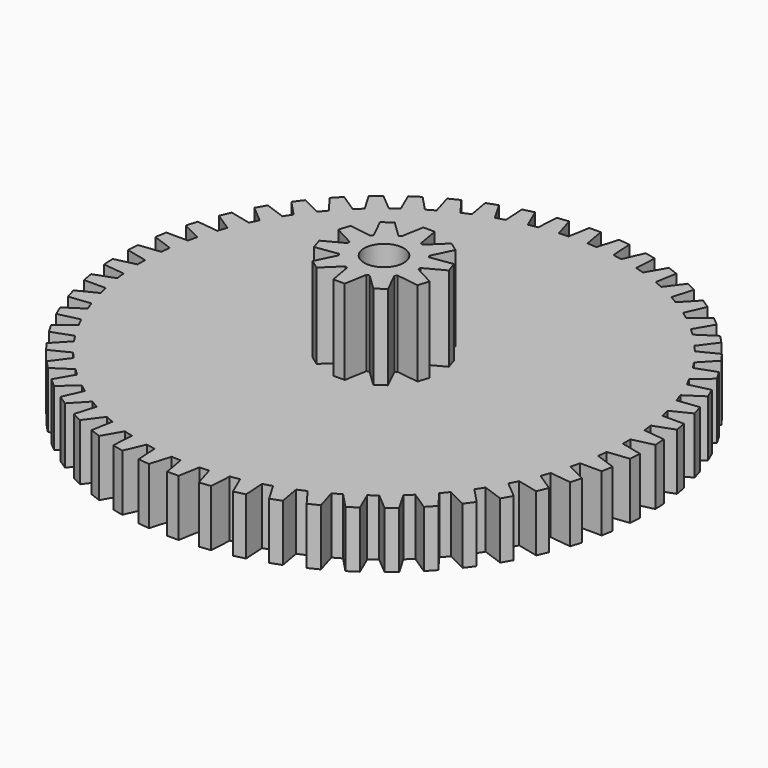
from build123d import *

# Parameters (mm, degrees)
F1_DEPTH = 3
F3_DEPTH = 4.5
F4_R     = 1.05
F5_DEPTH = 7.501


with BuildPart() as f1:
    # F0 (on Top) → F1 (new body)
    with BuildSketch(Plane.XY):
        with BuildLine():
            ThreePointArc((12.872627, -0.24717), (12.874407, -0.123591), (12.875, 0))
            ThreePointArc((12.875, 0), (12.874407, 0.123591), (12.872627, 0.24717))
            ThreePointArc((12.872627, 0.24717), (12.853218, 0.748615), (12.814282, 1.248922))
            ThreePointArc((12.814282, 1.248922), (12.787944, 1.494696), (12.756892, 1.73992))
            ThreePointArc((12.756892, 1.73992), (12.6794, 2.23572), (12.582645, 2.728124))
            ThreePointArc((12.582645, 2.728124), (12.527953, 2.969179), (12.468642, 3.20914))
            ThreePointArc((12.468642, 3.20914), (12.334115, 3.692592), (12.18085, 4.170434))
            ThreePointArc((12.18085, 4.170434), (12.098542, 4.403509), (12.011776, 4.634962))
            ThreePointArc((12.011776, 4.634962), (11.822032, 5.099527), (11.61433, 5.556345))
            ThreePointArc((11.61433, 5.556345), (11.50552, 5.778289), (11.39247, 5.998104))
            ThreePointArc((11.39247, 5.998104), (11.150077, 6.4375), (10.890746, 6.867116))
            ThreePointArc((10.890746, 6.867116), (10.756906, 7.074928), (10.619101, 7.280132))
            ThreePointArc((10.619101, 7.280132), (10.327336, 7.688417), (10.019883, 8.085022))
            ThreePointArc((10.019883, 8.085022), (9.862822, 8.27589), (9.702126, 8.463709))
            ThreePointArc((9.702126, 8.463709), (9.364936, 8.835361), (9.013518, 9.193591))
            ThreePointArc((9.013518, 9.193591), (8.835361, 9.364936), (8.653947, 9.532828))
            ThreePointArc((8.653947, 9.532828), (8.27589, 9.862822), (7.885261, 10.177833))
            ThreePointArc((7.885261, 10.177833), (7.688417, 10.327336), (7.488739, 10.473033))
            ThreePointArc((7.488739, 10.473033), (7.074928, 10.756906), (6.65037, 11.024437))
            ThreePointArc((6.65037, 11.024437), (6.4375, 11.150077), (6.222258, 11.271607))
            ThreePointArc((6.222258, 11.271607), (5.778289, 11.50552), (5.325543, 11.721954))
            ThreePointArc((5.325543, 11.721954), (5.099527, 11.822032), (4.871631, 11.917753))
            ThreePointArc((4.871631, 11.917753), (4.403509, 12.098542), (3.928698, 12.260953))
            ThreePointArc((3.928698, 12.260953), (3.692592, 12.334115), (3.455124, 12.402731))
            ThreePointArc((3.455124, 12.402731), (2.969179, 12.527953), (2.478724, 12.634142))
            ThreePointArc((2.478724, 12.634142), (2.23572, 12.6794), (1.991893, 12.719984))
            ThreePointArc((1.991893, 12.719984), (1.494696, 12.787944), (0.995229, 12.836477))
            ThreePointArc((0.995229, 12.836477), (0.748615, 12.853218), (0.501724, 12.86522))
            ThreePointArc((0.501724, 12.86522), (0, 12.875), (-0.501724, 12.86522))
            ThreePointArc((-0.501724, 12.86522), (-0.748615, 12.853218), (-0.995229, 12.836477))
            ThreePointArc((-0.995229, 12.836477), (-1.494696, 12.787944), (-1.991893, 12.719984))
            ThreePointArc((-1.991893, 12.719984), (-2.23572, 12.6794), (-2.478724, 12.634142))
            ThreePointArc((-2.478724, 12.634142), (-2.969179, 12.527953), (-3.455124, 12.402731))
            ThreePointArc((-3.455124, 12.402731), (-3.692592, 12.334115), (-3.928698, 12.260953))
            ThreePointArc((-3.928698, 12.260953), (-4.403509, 12.098542), (-4.871631, 11.917753))
            ThreePointArc((-4.871631, 11.917753), (-5.099527, 11.822032), (-5.325543, 11.721954))
            ThreePointArc((-5.325543, 11.721954), (-5.778289, 11.50552), (-6.222258, 11.271607))
            ThreePointArc((-6.222258, 11.271607), (-6.4375, 11.150077), (-6.65037, 11.024437))
            ThreePointArc((-6.65037, 11.024437), (-7.074928, 10.756906), (-7.488739, 10.473033))
            ThreePointArc((-7.488739, 10.473033), (-7.688417, 10.327336), (-7.885261, 10.177833))
            ThreePointArc((-7.885261, 10.177833), (-8.27589, 9.862822), (-8.653947, 9.532828))
            ThreePointArc((-8.653947, 9.532828), (-8.835361, 9.364936), (-9.013518, 9.193591))
            ThreePointArc((-9.013518, 9.193591), (-9.364936, 8.835361), (-9.702126, 8.463709))
            ThreePointArc((-9.702126, 8.463709), (-9.862822, 8.27589), (-10.019883, 8.085022))
            ThreePointArc((-10.019883, 8.085022), (-10.327336, 7.688417), (-10.619101, 7.280132))
            ThreePointArc((-10.619101, 7.280132), (-10.756906, 7.074928), (-10.890746, 6.867116))
            ThreePointArc((-10.890746, 6.867116), (-11.150077, 6.4375), (-11.39247, 5.998104))
            ThreePointArc((-11.39247, 5.998104), (-11.50552, 5.778289), (-11.61433, 5.556345))
            ThreePointArc((-11.61433, 5.556345), (-11.822032, 5.099527), (-12.011776, 4.634962))
            ThreePointArc((-12.011776, 4.634962), (-12.098542, 4.403509), (-12.18085, 4.170434))
            ThreePointArc((-12.18085, 4.170434), (-12.334115, 3.692592), (-12.468642, 3.20914))
            ThreePointArc((-12.468642, 3.20914), (-12.527953, 2.969179), (-12.582645, 2.728124))
            ThreePointArc((-12.582645, 2.728124), (-12.6794, 2.23572), (-12.756892, 1.73992))
            ThreePointArc((-12.756892, 1.73992), (-12.787944, 1.494696), (-12.814282, 1.248922))
            ThreePointArc((-12.814282, 1.248922), (-12.853218, 0.748615), (-12.872627, 0.24717))
            ThreePointArc((-12.872627, 0.24717), (-12.875, 0), (-12.872627, -0.24717))
            ThreePointArc((-12.872627, -0.24717), (-12.853218, -0.748615), (-12.814282, -1.248922))
            ThreePointArc((-12.814282, -1.248922), (-12.787944, -1.494696), (-12.756892, -1.73992))
            ThreePointArc((-12.756892, -1.73992), (-12.6794, -2.23572), (-12.582645, -2.728124))
            ThreePointArc((-12.582645, -2.728124), (-12.527953, -2.969179), (-12.468642, -3.20914))
            ThreePointArc((-12.468642, -3.20914), (-12.334115, -3.692592), (-12.18085, -4.170434))
            ThreePointArc((-12.18085, -4.170434), (-12.098542, -4.403509), (-12.011776, -4.634962))
            ThreePointArc((-12.011776, -4.634962), (-11.822032, -5.099527), (-11.61433, -5.556345))
            ThreePointArc((-11.61433, -5.556345), (-11.50552, -5.778289), (-11.39247, -5.998104))
            ThreePointArc((-11.39247, -5.998104), (-11.150077, -6.4375), (-10.890746, -6.867116))
            ThreePointArc((-10.890746, -6.867116), (-10.756906, -7.074928), (-10.619101, -7.280132))
            ThreePointArc((-10.619101, -7.280132), (-10.327336, -7.688417), (-10.019883, -8.085022))
            ThreePointArc((-10.019883, -8.085022), (-9.862822, -8.27589), (-9.702126, -8.463709))
            ThreePointArc((-9.702126, -8.463709), (-9.364936, -8.835361), (-9.013518, -9.193591))
            ThreePointArc((-9.013518, -9.193591), (-8.835361, -9.364936), (-8.653947, -9.532828))
            ThreePointArc((-8.653947, -9.532828), (-8.27589, -9.862822), (-7.885261, -10.177833))
            ThreePointArc((-7.885261, -10.177833), (-7.688417, -10.327336), (-7.488739, -10.473033))
            ThreePointArc((-7.488739, -10.473033), (-7.074928, -10.756906), (-6.65037, -11.024437))
            ThreePointArc((-6.65037, -11.024437), (-6.4375, -11.150077), (-6.222258, -11.271607))
            ThreePointArc((-6.222258, -11.271607), (-5.778289, -11.50552), (-5.325543, -11.721954))
            ThreePointArc((-5.325543, -11.721954), (-5.099527, -11.822032), (-4.871631, -11.917753))
            ThreePointArc((-4.871631, -11.917753), (-4.403509, -12.098542), (-3.928698, -12.260953))
            ThreePointArc((-3.928698, -12.260953), (-3.692592, -12.334115), (-3.455124, -12.402731))
            ThreePointArc((-3.455124, -12.402731), (-2.969179, -12.527953), (-2.478724, -12.634142))
            ThreePointArc((-2.478724, -12.634142), (-2.23572, -12.6794), (-1.991893, -12.719984))
            ThreePointArc((-1.991893, -12.719984), (-1.494696, -12.787944), (-0.995229, -12.836477))
            ThreePointArc((-0.995229, -12.836477), (-0.748615, -12.853218), (-0.501724, -12.86522))
            ThreePointArc((-0.501724, -12.86522), (0, -12.875), (0.501724, -12.86522))
            ThreePointArc((0.501724, -12.86522), (0.748615, -12.853218), (0.995229, -12.836477))
            ThreePointArc((0.995229, -12.836477), (1.494696, -12.787944), (1.991893, -12.719984))
            ThreePointArc((1.991893, -12.719984), (2.23572, -12.6794), (2.478724, -12.634142))
            ThreePointArc((2.478724, -12.634142), (2.969179, -12.527953), (3.455124, -12.402731))
            ThreePointArc((3.455124, -12.402731), (3.692592, -12.334115), (3.928698, -12.260953))
            ThreePointArc((3.928698, -12.260953), (4.403509, -12.098542), (4.871631, -11.917753))
            ThreePointArc((4.871631, -11.917753), (5.099527, -11.822032), (5.325543, -11.721954))
            ThreePointArc((5.325543, -11.721954), (5.778289, -11.50552), (6.222258, -11.271607))
            ThreePointArc((6.222258, -11.271607), (6.4375, -11.150077), (6.65037, -11.024437))
            ThreePointArc((6.65037, -11.024437), (7.074928, -10.756906), (7.488739, -10.473033))
            ThreePointArc((7.488739, -10.473033), (7.688417, -10.327336), (7.885261, -10.177833))
            ThreePointArc((7.885261, -10.177833), (8.27589, -9.862822), (8.653947, -9.532828))
            ThreePointArc((8.653947, -9.532828), (8.835361, -9.364936), (9.013518, -9.193591))
            ThreePointArc((9.013518, -9.193591), (9.364936, -8.835361), (9.702126, -8.463709))
            ThreePointArc((9.702126, -8.463709), (9.862822, -8.27589), (10.019883, -8.085022))
            ThreePointArc((10.019883, -8.085022), (10.327336, -7.688417), (10.619101, -7.280132))
            ThreePointArc((10.619101, -7.280132), (10.756906, -7.074928), (10.890746, -6.867116))
            ThreePointArc((10.890746, -6.867116), (11.150077, -6.4375), (11.39247, -5.998104))
            ThreePointArc((11.39247, -5.998104), (11.50552, -5.778289), (11.61433, -5.556345))
            ThreePointArc((11.61433, -5.556345), (11.822032, -5.099527), (12.011776, -4.634962))
            ThreePointArc((12.011776, -4.634962), (12.098542, -4.403509), (12.18085, -4.170434))
            ThreePointArc((12.18085, -4.170434), (12.334115, -3.692592), (12.468642, -3.20914))
            ThreePointArc((12.468642, -3.20914), (12.527953, -2.969179), (12.582645, -2.728124))
            ThreePointArc((12.582645, -2.728124), (12.6794, -2.23572), (12.756892, -1.73992))
            ThreePointArc((12.756892, -1.73992), (12.787944, -1.494696), (12.814282, -1.248922))
            ThreePointArc((12.814282, -1.248922), (12.853218, -0.748615), (12.872627, -0.24717))
        make_face()
        with BuildLine():
            ThreePointArc((12.814282, 1.248922), (12.853218, 0.748615), (12.872627, 0.24717))
            Line((12.872627, 0.24717), (13.990629, 0.512142))
            Line((13.990629, 0.512142), (13.955486, 1.115534))
            Line((13.955486, 1.115534), (12.814282, 1.248922))
        make_face()
        with BuildLine():
            Line((13.990629, -0.512142), (12.872627, -0.24717))
            ThreePointArc((12.872627, -0.24717), (12.853218, -0.748615), (12.814282, -1.248922))
            Line((12.814282, -1.248922), (13.955486, -1.115534))
            Line((13.955486, -1.115534), (13.990629, -0.512142))
        make_face()
        with BuildLine():
            ThreePointArc((12.582645, 2.728124), (12.6794, 2.23572), (12.756892, 1.73992))
            Line((12.756892, 1.73992), (13.836574, 2.132892))
            Line((13.836574, 2.132892), (13.731618, 2.728124))
            Line((13.731618, 2.728124), (12.582645, 2.728124))
        make_face()
        with BuildLine():
            Line((13.836574, -2.132892), (12.756892, -1.73992))
            ThreePointArc((12.756892, -1.73992), (12.6794, -2.23572), (12.582645, -2.728124))
            Line((12.582645, -2.728124), (13.731618, -2.728124))
            Line((13.731618, -2.728124), (13.836574, -2.132892))
        make_face()
        with BuildLine():
            ThreePointArc((12.18085, 4.170434), (12.334115, 3.692592), (12.468642, 3.20914))
            Line((12.468642, 3.20914), (13.495402, 3.724798))
            Line((13.495402, 3.724798), (13.322054, 4.303821))
            Line((13.322054, 4.303821), (12.18085, 4.170434))
        make_face()
        with BuildLine():
            Line((13.495402, -3.724798), (12.468642, -3.20914))
            ThreePointArc((12.468642, -3.20914), (12.334115, -3.692592), (12.18085, -4.170434))
            Line((12.18085, -4.170434), (13.322054, -4.303821))
            Line((13.322054, -4.303821), (13.495402, -3.724798))
        make_face()
        with BuildLine():
            ThreePointArc((11.61433, 5.556345), (11.822032, 5.099527), (12.011776, 4.634962))
            Line((12.011776, 4.634962), (12.971728, 5.266333))
            Line((12.971728, 5.266333), (12.732332, 5.821316))
            Line((12.732332, 5.821316), (11.61433, 5.556345))
        make_face()
        with BuildLine():
            Line((12.971728, -5.266333), (12.011776, -4.634962))
            ThreePointArc((12.011776, -4.634962), (11.822032, -5.099527), (11.61433, -5.556345))
            Line((11.61433, -5.556345), (12.732332, -5.821316))
            Line((12.732332, -5.821316), (12.971728, -5.266333))
        make_face()
        with BuildLine():
            ThreePointArc((10.890746, 6.867116), (11.150077, 6.4375), (11.39247, 5.998104))
            Line((11.39247, 5.998104), (12.272634, 6.73665))
            Line((12.272634, 6.73665), (11.970427, 7.260088))
            Line((11.970427, 7.260088), (10.890746, 6.867116))
        make_face()
        with BuildLine():
            Line((12.272634, -6.73665), (11.39247, -5.998104))
            ThreePointArc((11.39247, -5.998104), (11.150077, -6.4375), (10.890746, -6.867116))
            Line((10.890746, -6.867116), (11.970427, -7.260088))
            Line((11.970427, -7.260088), (12.272634, -6.73665))
        make_face()
        with BuildLine():
            ThreePointArc((10.019883, 8.085022), (10.327336, 7.688417), (10.619101, 7.280132))
            Line((10.619101, 7.280132), (11.407574, 8.115865))
            Line((11.407574, 8.115865), (11.046642, 8.60068))
            Line((11.046642, 8.60068), (10.019883, 8.085022))
        make_face()
        with BuildLine():
            Line((11.407574, -8.115865), (10.619101, -7.280132))
            ThreePointArc((10.619101, -7.280132), (10.327336, -7.688417), (10.019883, -8.085022))
            Line((10.019883, -8.085022), (11.046642, -8.60068))
            Line((11.046642, -8.60068), (11.407574, -8.115865))
        make_face()
        with BuildLine():
            ThreePointArc((9.013518, 9.193591), (9.364936, 8.835361), (9.702126, 8.463709))
            Line((9.702126, 8.463709), (10.388245, 9.385327))
            Line((10.388245, 9.385327), (9.973471, 9.824962))
            Line((9.973471, 9.824962), (9.013518, 9.193591))
        make_face()
        with BuildLine():
            Line((10.388245, -9.385327), (9.702126, -8.463709))
            ThreePointArc((9.702126, -8.463709), (9.364936, -8.835361), (9.013518, -9.193591))
            Line((9.013518, -9.193591), (9.973471, -9.824962))
            Line((9.973471, -9.824962), (10.388245, -9.385327))
        make_face()
        with BuildLine():
            ThreePointArc((7.885261, 10.177833), (8.27589, 9.862822), (8.653947, 9.532828))
            Line((8.653947, 9.532828), (9.228434, 10.527868))
            Line((9.228434, 10.527868), (8.765425, 10.916378))
            Line((8.765425, 10.916378), (7.885261, 10.177833))
        make_face()
        with BuildLine():
            Line((9.228434, -10.527868), (8.653947, -9.532828))
            ThreePointArc((8.653947, -9.532828), (8.27589, -9.862822), (7.885261, -10.177833))
            Line((7.885261, -10.177833), (8.765425, -10.916378))
            Line((8.765425, -10.916378), (9.228434, -10.527868))
        make_face()
        with BuildLine():
            ThreePointArc((6.65037, 11.024437), (7.074928, 10.756906), (7.488739, 10.473033))
            Line((7.488739, 10.473033), (7.943824, 11.528038))
            Line((7.943824, 11.528038), (7.438843, 11.86017))
            Line((7.438843, 11.86017), (6.65037, 11.024437))
        make_face()
        with BuildLine():
            Line((7.943824, -11.528038), (7.488739, -10.473033))
            ThreePointArc((7.488739, -10.473033), (7.074928, -10.756906), (6.65037, -11.024437))
            Line((6.65037, -11.024437), (7.438843, -11.86017))
            Line((7.438843, -11.86017), (7.943824, -11.528038))
        make_face()
        with BuildLine():
            ThreePointArc((5.325543, 11.721954), (5.778289, 11.50552), (6.222258, 11.271607))
            Line((6.222258, 11.271607), (6.551787, 12.372311))
            Line((6.551787, 12.372311), (6.011662, 12.643572))
            Line((6.011662, 12.643572), (5.325543, 11.721954))
        make_face()
        with BuildLine():
            Line((6.551787, -12.372311), (6.222258, -11.271607))
            ThreePointArc((6.222258, -11.271607), (5.778289, -11.50552), (5.325543, -11.721954))
            Line((5.325543, -11.721954), (6.011662, -12.643572))
            Line((6.011662, -12.643572), (6.551787, -12.372311))
        make_face()
        with BuildLine():
            ThreePointArc((3.928698, 12.260953), (4.403509, 12.098542), (4.871631, 11.917753))
            Line((4.871631, 11.917753), (5.071148, 13.04927))
            Line((5.071148, 13.04927), (4.503184, 13.255992))
            Line((4.503184, 13.255992), (3.928698, 12.260953))
        make_face()
        with BuildLine():
            Line((5.071148, -13.04927), (4.871631, -11.917753))
            ThreePointArc((4.871631, -11.917753), (4.403509, -12.098542), (3.928698, -12.260953))
            Line((3.928698, -12.260953), (4.503184, -13.255992))
            Line((4.503184, -13.255992), (5.071148, -13.04927))
        make_face()
        with BuildLine():
            ThreePointArc((2.478724, 12.634142), (2.969179, 12.527953), (3.455124, 12.402731))
            Line((3.455124, 12.402731), (3.521931, 13.54976))
            Line((3.521931, 13.54976), (2.933809, 13.689148))
            Line((2.933809, 13.689148), (2.478724, 12.634142))
        make_face()
        with BuildLine():
            Line((3.521931, -13.54976), (3.455124, -12.402731))
            ThreePointArc((3.455124, -12.402731), (2.969179, -12.527953), (2.478724, -12.634142))
            Line((2.478724, -12.634142), (2.933809, -13.689148))
            Line((2.933809, -13.689148), (3.521931, -13.54976))
        make_face()
        with BuildLine():
            ThreePointArc((0.995229, 12.836477), (1.494696, 12.787944), (1.991893, 12.719984))
            Line((1.991893, 12.719984), (1.925086, 13.867013))
            Line((1.925086, 13.867013), (1.324758, 13.937181))
            Line((1.324758, 13.937181), (0.995229, 12.836477))
        make_face()
        with BuildLine():
            Line((1.925086, -13.867013), (1.991893, -12.719984))
            ThreePointArc((1.991893, -12.719984), (1.494696, -12.787944), (0.995229, -12.836477))
            Line((0.995229, -12.836477), (1.324758, -13.937181))
            Line((1.324758, -13.937181), (1.925086, -13.867013))
        make_face()
        with BuildLine():
            ThreePointArc((-0.501724, 12.86522), (0, 12.875), (0.501724, 12.86522))
            Line((0.501724, 12.86522), (0.302207, 13.996738))
            Line((0.302207, 13.996738), (-0.302207, 13.996738))
            Line((-0.302207, 13.996738), (-0.501724, 12.86522))
        make_face()
        with BuildLine():
            Line((0.302207, -13.996738), (0.501724, -12.86522))
            ThreePointArc((0.501724, -12.86522), (0, -12.875), (-0.501724, -12.86522))
            Line((-0.501724, -12.86522), (-0.302207, -13.996738))
            Line((-0.302207, -13.996738), (0.302207, -13.996738))
        make_face()
        with BuildLine():
            ThreePointArc((-1.991893, 12.719984), (-1.494696, 12.787944), (-0.995229, 12.836477))
            Line((-0.995229, 12.836477), (-1.324758, 13.937181))
            Line((-1.324758, 13.937181), (-1.925086, 13.867013))
            Line((-1.925086, 13.867013), (-1.991893, 12.719984))
        make_face()
        with BuildLine():
            Line((-1.324758, -13.937181), (-0.995229, -12.836477))
            ThreePointArc((-0.995229, -12.836477), (-1.494696, -12.787944), (-1.991893, -12.719984))
            Line((-1.991893, -12.719984), (-1.925086, -13.867013))
            Line((-1.925086, -13.867013), (-1.324758, -13.937181))
        make_face()
        with BuildLine():
            ThreePointArc((-3.455124, 12.402731), (-2.969179, 12.527953), (-2.478724, 12.634142))
            Line((-2.478724, 12.634142), (-2.933809, 13.689148))
            Line((-2.933809, 13.689148), (-3.521931, 13.54976))
            Line((-3.521931, 13.54976), (-3.455124, 12.402731))
        make_face()
        with BuildLine():
            Line((-2.933809, -13.689148), (-2.478724, -12.634142))
            ThreePointArc((-2.478724, -12.634142), (-2.969179, -12.527953), (-3.455124, -12.402731))
            Line((-3.455124, -12.402731), (-3.521931, -13.54976))
            Line((-3.521931, -13.54976), (-2.933809, -13.689148))
        make_face()
        with BuildLine():
            ThreePointArc((-4.871631, 11.917753), (-4.403509, 12.098542), (-3.928698, 12.260953))
            Line((-3.928698, 12.260953), (-4.503184, 13.255992))
            Line((-4.503184, 13.255992), (-5.071148, 13.04927))
            Line((-5.071148, 13.04927), (-4.871631, 11.917753))
        make_face()
        with BuildLine():
            Line((-4.503184, -13.255992), (-3.928698, -12.260953))
            ThreePointArc((-3.928698, -12.260953), (-4.403509, -12.098542), (-4.871631, -11.917753))
            Line((-4.871631, -11.917753), (-5.071148, -13.04927))
            Line((-5.071148, -13.04927), (-4.503184, -13.255992))
        make_face()
        with BuildLine():
            ThreePointArc((-6.222258, 11.271607), (-5.778289, 11.50552), (-5.325543, 11.721954))
            Line((-5.325543, 11.721954), (-6.011662, 12.643572))
            Line((-6.011662, 12.643572), (-6.551787, 12.372311))
            Line((-6.551787, 12.372311), (-6.222258, 11.271607))
        make_face()
        with BuildLine():
            Line((-6.011662, -12.643572), (-5.325543, -11.721954))
            ThreePointArc((-5.325543, -11.721954), (-5.778289, -11.50552), (-6.222258, -11.271607))
            Line((-6.222258, -11.271607), (-6.551787, -12.372311))
            Line((-6.551787, -12.372311), (-6.011662, -12.643572))
        make_face()
        with BuildLine():
            ThreePointArc((-7.488739, 10.473033), (-7.074928, 10.756906), (-6.65037, 11.024437))
            Line((-6.65037, 11.024437), (-7.438843, 11.86017))
            Line((-7.438843, 11.86017), (-7.943824, 11.528038))
            Line((-7.943824, 11.528038), (-7.488739, 10.473033))
        make_face()
        with BuildLine():
            Line((-7.438843, -11.86017), (-6.65037, -11.024437))
            ThreePointArc((-6.65037, -11.024437), (-7.074928, -10.756906), (-7.488739, -10.473033))
            Line((-7.488739, -10.473033), (-7.943824, -11.528038))
            Line((-7.943824, -11.528038), (-7.438843, -11.86017))
        make_face()
        with BuildLine():
            ThreePointArc((-8.653947, 9.532828), (-8.27589, 9.862822), (-7.885261, 10.177833))
            Line((-7.885261, 10.177833), (-8.765425, 10.916378))
            Line((-8.765425, 10.916378), (-9.228434, 10.527868))
            Line((-9.228434, 10.527868), (-8.653947, 9.532828))
        make_face()
        with BuildLine():
            Line((-8.765425, -10.916378), (-7.885261, -10.177833))
            ThreePointArc((-7.885261, -10.177833), (-8.27589, -9.862822), (-8.653947, -9.532828))
            Line((-8.653947, -9.532828), (-9.228434, -10.527868))
            Line((-9.228434, -10.527868), (-8.765425, -10.916378))
        make_face()
        with BuildLine():
            ThreePointArc((-9.702126, 8.463709), (-9.364936, 8.835361), (-9.013518, 9.193591))
            Line((-9.013518, 9.193591), (-9.973471, 9.824962))
            Line((-9.973471, 9.824962), (-10.388245, 9.385327))
            Line((-10.388245, 9.385327), (-9.702126, 8.463709))
        make_face()
        with BuildLine():
            Line((-9.973471, -9.824962), (-9.013518, -9.193591))
            ThreePointArc((-9.013518, -9.193591), (-9.364936, -8.835361), (-9.702126, -8.463709))
            Line((-9.702126, -8.463709), (-10.388245, -9.385327))
            Line((-10.388245, -9.385327), (-9.973471, -9.824962))
        make_face()
        with BuildLine():
            ThreePointArc((-10.619101, 7.280132), (-10.327336, 7.688417), (-10.019883, 8.085022))
            Line((-10.019883, 8.085022), (-11.046642, 8.60068))
            Line((-11.046642, 8.60068), (-11.407574, 8.115865))
            Line((-11.407574, 8.115865), (-10.619101, 7.280132))
        make_face()
        with BuildLine():
            Line((-11.046642, -8.60068), (-10.019883, -8.085022))
            ThreePointArc((-10.019883, -8.085022), (-10.327336, -7.688417), (-10.619101, -7.280132))
            Line((-10.619101, -7.280132), (-11.407574, -8.115865))
            Line((-11.407574, -8.115865), (-11.046642, -8.60068))
        make_face()
        with BuildLine():
            ThreePointArc((-11.39247, 5.998104), (-11.150077, 6.4375), (-10.890746, 6.867116))
            Line((-10.890746, 6.867116), (-11.970427, 7.260088))
            Line((-11.970427, 7.260088), (-12.272634, 6.73665))
            Line((-12.272634, 6.73665), (-11.39247, 5.998104))
        make_face()
        with BuildLine():
            Line((-11.970427, -7.260088), (-10.890746, -6.867116))
            ThreePointArc((-10.890746, -6.867116), (-11.150077, -6.4375), (-11.39247, -5.998104))
            Line((-11.39247, -5.998104), (-12.272634, -6.73665))
            Line((-12.272634, -6.73665), (-11.970427, -7.260088))
        make_face()
        with BuildLine():
            ThreePointArc((-12.011776, 4.634962), (-11.822032, 5.099527), (-11.61433, 5.556345))
            Line((-11.61433, 5.556345), (-12.732332, 5.821316))
            Line((-12.732332, 5.821316), (-12.971728, 5.266333))
            Line((-12.971728, 5.266333), (-12.011776, 4.634962))
        make_face()
        with BuildLine():
            Line((-12.732332, -5.821316), (-11.61433, -5.556345))
            ThreePointArc((-11.61433, -5.556345), (-11.822032, -5.099527), (-12.011776, -4.634962))
            Line((-12.011776, -4.634962), (-12.971728, -5.266333))
            Line((-12.971728, -5.266333), (-12.732332, -5.821316))
        make_face()
        with BuildLine():
            ThreePointArc((-12.468642, 3.20914), (-12.334115, 3.692592), (-12.18085, 4.170434))
            Line((-12.18085, 4.170434), (-13.322054, 4.303821))
            Line((-13.322054, 4.303821), (-13.495402, 3.724798))
            Line((-13.495402, 3.724798), (-12.468642, 3.20914))
        make_face()
        with BuildLine():
            Line((-13.322054, -4.303821), (-12.18085, -4.170434))
            ThreePointArc((-12.18085, -4.170434), (-12.334115, -3.692592), (-12.468642, -3.20914))
            Line((-12.468642, -3.20914), (-13.495402, -3.724798))
            Line((-13.495402, -3.724798), (-13.322054, -4.303821))
        make_face()
        with BuildLine():
            ThreePointArc((-12.756892, 1.73992), (-12.6794, 2.23572), (-12.582645, 2.728124))
            Line((-12.582645, 2.728124), (-13.731618, 2.728124))
            Line((-13.731618, 2.728124), (-13.836574, 2.132892))
            Line((-13.836574, 2.132892), (-12.756892, 1.73992))
        make_face()
        with BuildLine():
            Line((-13.731618, -2.728124), (-12.582645, -2.728124))
            ThreePointArc((-12.582645, -2.728124), (-12.6794, -2.23572), (-12.756892, -1.73992))
            Line((-12.756892, -1.73992), (-13.836574, -2.132892))
            Line((-13.836574, -2.132892), (-13.731618, -2.728124))
        make_face()
        with BuildLine():
            ThreePointArc((-12.872627, 0.24717), (-12.853218, 0.748615), (-12.814282, 1.248922))
            Line((-12.814282, 1.248922), (-13.955486, 1.115534))
            Line((-13.955486, 1.115534), (-13.990629, 0.512142))
            Line((-13.990629, 0.512142), (-12.872627, 0.24717))
        make_face()
        with BuildLine():
            Line((-13.955486, -1.115534), (-12.814282, -1.248922))
            ThreePointArc((-12.814282, -1.248922), (-12.853218, -0.748615), (-12.872627, -0.24717))
            Line((-12.872627, -0.24717), (-13.990629, -0.512142))
            Line((-13.990629, -0.512142), (-13.955486, -1.115534))
        make_face()
    extrude(amount=F1_DEPTH)

    # F2 (on face) → F3 (join)
    with BuildSketch(Plane.XY.offset(3)):
        with BuildLine():
            ThreePointArc((1.873699, -0.069828), (1.874675, -0.03492), (1.875, 0))
            ThreePointArc((1.875, 0), (1.874675, 0.03492), (1.873699, 0.069828))
            ThreePointArc((1.873699, 0.069828), (1.783231, 0.579407), (1.556898, 1.044841))
            ThreePointArc((1.556898, 1.044841), (1.516907, 1.102097), (1.474811, 1.157825))
            ThreePointArc((1.474811, 1.157825), (1.102097, 1.516907), (0.645415, 1.760416))
            ThreePointArc((0.645415, 1.760416), (0.579407, 1.783231), (0.512595, 1.803572))
            ThreePointArc((0.512595, 1.803572), (0, 1.875), (-0.512595, 1.803572))
            ThreePointArc((-0.512595, 1.803572), (-0.579407, 1.783231), (-0.645415, 1.760416))
            ThreePointArc((-0.645415, 1.760416), (-1.102097, 1.516907), (-1.474811, 1.157825))
            ThreePointArc((-1.474811, 1.157825), (-1.516907, 1.102097), (-1.556898, 1.044841))
            ThreePointArc((-1.556898, 1.044841), (-1.783231, 0.579407), (-1.873699, 0.069828))
            ThreePointArc((-1.873699, 0.069828), (-1.875, 0), (-1.873699, -0.069828))
            ThreePointArc((-1.873699, -0.069828), (-1.783231, -0.579407), (-1.556898, -1.044841))
            ThreePointArc((-1.556898, -1.044841), (-1.516907, -1.102097), (-1.474811, -1.157825))
            ThreePointArc((-1.474811, -1.157825), (-1.102097, -1.516907), (-0.645415, -1.760416))
            ThreePointArc((-0.645415, -1.760416), (-0.579407, -1.783231), (-0.512595, -1.803572))
            ThreePointArc((-0.512595, -1.803572), (0, -1.875), (0.512595, -1.803572))
            ThreePointArc((0.512595, -1.803572), (0.579407, -1.783231), (0.645415, -1.760416))
            ThreePointArc((0.645415, -1.760416), (1.102097, -1.516907), (1.474811, -1.157825))
            ThreePointArc((1.474811, -1.157825), (1.516907, -1.102097), (1.556898, -1.044841))
            ThreePointArc((1.556898, -1.044841), (1.783231, -0.579407), (1.873699, -0.069828))
        make_face()
        with BuildLine():
            ThreePointArc((1.556898, 1.044841), (1.783231, 0.579407), (1.873699, 0.069828))
            Line((1.873699, 0.069828), (2.932501, 0.632803))
            Line((2.932501, 0.632803), (2.744395, 1.211733))
            Line((2.744395, 1.211733), (1.556898, 1.044841))
        make_face()
        with BuildLine():
            Line((2.932501, -0.632803), (1.873699, -0.069828))
            ThreePointArc((1.873699, -0.069828), (1.783231, -0.579407), (1.556898, -1.044841))
            Line((1.556898, -1.044841), (2.744395, -1.211733))
            Line((2.744395, -1.211733), (2.932501, -0.632803))
        make_face()
        with BuildLine():
            ThreePointArc((0.645415, 1.760416), (1.102097, 1.516907), (1.474811, 1.157825))
            Line((1.474811, 1.157825), (2.000491, 2.235629))
            Line((2.000491, 2.235629), (1.508024, 2.593427))
            Line((1.508024, 2.593427), (0.645415, 1.760416))
        make_face()
        with BuildLine():
            Line((2.000491, -2.235629), (1.474811, -1.157825))
            ThreePointArc((1.474811, -1.157825), (1.102097, -1.516907), (0.645415, -1.760416))
            Line((0.645415, -1.760416), (1.508024, -2.593427))
            Line((1.508024, -2.593427), (2.000491, -2.235629))
        make_face()
        with BuildLine():
            ThreePointArc((-0.512595, 1.803572), (0, 1.875), (0.512595, 1.803572))
            Line((0.512595, 1.803572), (0.304362, 2.984521))
            Line((0.304362, 2.984521), (-0.304362, 2.984521))
            Line((-0.304362, 2.984521), (-0.512595, 1.803572))
        make_face()
        with BuildLine():
            Line((0.304362, -2.984521), (0.512595, -1.803572))
            ThreePointArc((0.512595, -1.803572), (0, -1.875), (-0.512595, -1.803572))
            Line((-0.512595, -1.803572), (-0.304362, -2.984521))
            Line((-0.304362, -2.984521), (0.304362, -2.984521))
        make_face()
        with BuildLine():
            ThreePointArc((-1.474811, 1.157825), (-1.102097, 1.516907), (-0.645415, 1.760416))
            Line((-0.645415, 1.760416), (-1.508024, 2.593427))
            Line((-1.508024, 2.593427), (-2.000491, 2.235629))
            Line((-2.000491, 2.235629), (-1.474811, 1.157825))
        make_face()
        with BuildLine():
            Line((-1.508024, -2.593427), (-0.645415, -1.760416))
            ThreePointArc((-0.645415, -1.760416), (-1.102097, -1.516907), (-1.474811, -1.157825))
            Line((-1.474811, -1.157825), (-2.000491, -2.235629))
            Line((-2.000491, -2.235629), (-1.508024, -2.593427))
        make_face()
        with BuildLine():
            ThreePointArc((-1.873699, 0.069828), (-1.783231, 0.579407), (-1.556898, 1.044841))
            Line((-1.556898, 1.044841), (-2.744395, 1.211733))
            Line((-2.744395, 1.211733), (-2.932501, 0.632803))
            Line((-2.932501, 0.632803), (-1.873699, 0.069828))
        make_face()
        with BuildLine():
            Line((-2.744395, -1.211733), (-1.556898, -1.044841))
            ThreePointArc((-1.556898, -1.044841), (-1.783231, -0.579407), (-1.873699, -0.069828))
            Line((-1.873699, -0.069828), (-2.932501, -0.632803))
            Line((-2.932501, -0.632803), (-2.744395, -1.211733))
        make_face()
    extrude(amount=F3_DEPTH)

    # F4 (on face) → F5 (cut, through all)
    with BuildSketch(Plane.XY.offset(7.5)):
        Circle(F4_R)
    extrude(amount=-F5_DEPTH, mode=Mode.SUBTRACT)


solid = f1.part
